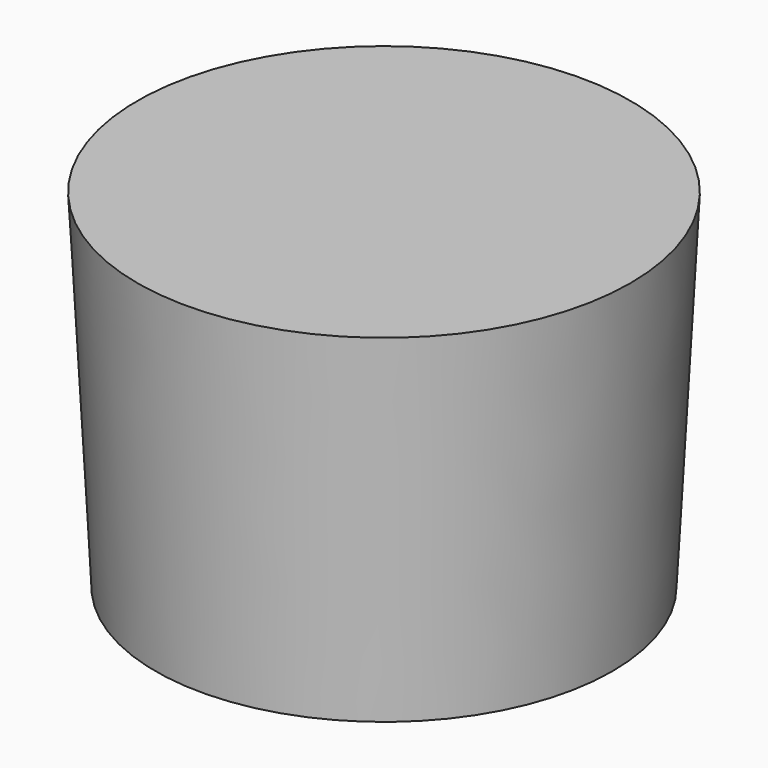
from build123d import *

# Parameters (mm, degrees)
F0_R     = 45.237062044
F1_DEPTH = 63.754
F1_TAPER = 3
F2_T     = -12.7


with BuildPart() as f1:
    # F0 (on Top) → F1 (new body)
    with BuildSketch(Plane.XY):
        Circle(F0_R)
    extrude(amount=-F1_DEPTH, taper=F1_TAPER)

    # F2
    f2_openings = [f1.faces().sort_by_distance(p)[0] for p in [
        (0, 0, -63.754),
    ]]
    offset(amount=F2_T, openings=f2_openings, kind=Kind.INTERSECTION)


solid = f1.part
